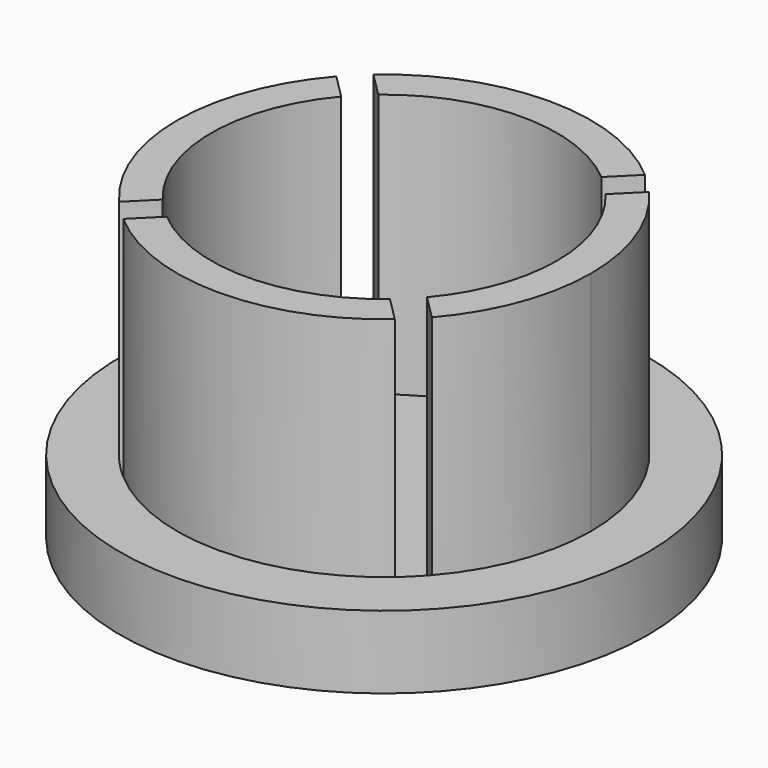
from build123d import *

# Parameters (mm, degrees)
F0_R     = 7.366
F0_R_2   = 5.7785
F1_DEPTH = 1
F2_DEPTH = 2.032
F4_DEPTH = 7.366


with BuildPart() as f1:
    # F0 (on Top) → F1 (new body)
    with BuildSketch(Plane.XY):
        Circle(F0_R)
        Circle(F0_R_2, mode=Mode.SUBTRACT)
        Circle(F0_R_2)
    extrude(amount=F1_DEPTH)

    # F0 (on Top) → F2 (join)
    with BuildSketch(Plane.XY):
        Circle(F0_R)
        Circle(F0_R_2, mode=Mode.SUBTRACT)
    extrude(amount=F2_DEPTH)

    # F3 (on face) → F4 (join)
    with BuildSketch(Plane.XY.offset(1)):
        with BuildLine():
            ThreePointArc((-3.1130078892, 3.687744281), (0, 4.826), (3.1130078892, 3.687744281))
            Line((3.1130078892, 3.687744281), (3.7885305572, 4.3632669489))
            ThreePointArc((3.7885305572, 4.3632669489), (0, 5.7785), (-3.7885305572, 4.3632669489))
            Line((-3.7885305572, 4.3632669489), (-3.1130078892, 3.687744281))
        make_face()
        with BuildLine():
            ThreePointArc((-3.687744281, -3.1130078892), (-4.826, 0), (-3.687744281, 3.1130078892))
            Line((-3.687744281, 3.1130078892), (-4.3632669489, 3.7885305572))
            ThreePointArc((-4.3632669489, 3.7885305572), (-5.7785, 0), (-4.3632669489, -3.7885305572))
            Line((-4.3632669489, -3.7885305572), (-3.687744281, -3.1130078892))
        make_face()
        with BuildLine():
            Line((3.7885305572, -4.3632669489), (3.1130078892, -3.687744281))
            ThreePointArc((3.1130078892, -3.687744281), (0, -4.826), (-3.1130078892, -3.687744281))
            Line((-3.1130078892, -3.687744281), (-3.7885305572, -4.3632669489))
            ThreePointArc((-3.7885305572, -4.3632669489), (0, -5.7785), (3.7885305572, -4.3632669489))
        make_face()
        with BuildLine():
            ThreePointArc((3.687744281, 3.1130078892), (4.5325119912, 1.6572902733), (4.826, 0))
            ThreePointArc((4.826, 0), (4.5325119912, -1.6572902733), (3.687744281, -3.1130078892))
            Line((3.687744281, -3.1130078892), (4.3632669489, -3.7885305572))
            ThreePointArc((4.3632669489, -3.7885305572), (5.4131414315, -2.0221182193), (5.7785, 0))
            ThreePointArc((5.7785, 0), (5.4131414315, 2.0221182193), (4.3632669489, 3.7885305572))
            Line((4.3632669489, 3.7885305572), (3.687744281, 3.1130078892))
        make_face()
    extrude(amount=F4_DEPTH)


solid = f1.part
